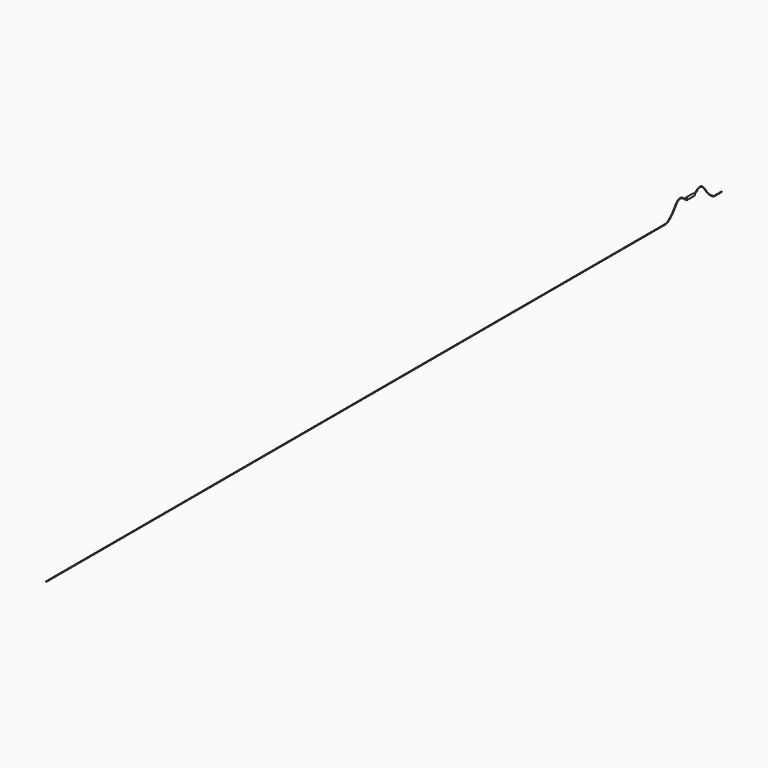
from build123d import *

# Parameters (mm, degrees)
F1_R     = 0.1905
F1_R_2   = 0.127
F4_R     = 0.762
F5_DEPTH = 6.096


with BuildPart() as f2:
    # F2: sweep along a path in F0
    with BuildLine(Plane.YZ) as f2_path:
        Line((0, 0), (-5.9182, 0))
        add(Plane.YZ * Edge.make_bspline(
            [(-5.9182, 0), (-7.2357114294, 0), (-12.3622084135, 4.2069464874), (-15.127424579, 10.0461636498), (-19.8274651049, 10.2549298416), (-21.6713033986, 7.631), (-22.86, 7.631)],
            knots=[0, 0, 0, 0, 0.2933226031, 0.5756827964, 0.7855071002, 1, 1, 1, 1], degree=3))
        Line((-22.86, 7.631), (-28.956, 7.631))
        add(Plane.YZ * Edge.make_bspline(
            [(-28.956, 7.631), (-30.1446966014, 7.631), (-31.9885348951, 10.2549298416), (-36.688575421, 10.0461636498), (-39.4537915865, 4.2069464874), (-44.5802885706, 0), (-45.8978, 0)],
            knots=[0, 0, 0, 0, 0.2144928998, 0.4243172036, 0.7066773969, 1, 1, 1, 1], degree=3))
        Line((-45.8978, 0), (-553.8978, 0))
    # F1 (on Front) → F2 (sweep)
    with BuildSketch(Plane.XZ):
        with Locations((0, -0.1905)):
            Circle(F1_R)
        with Locations((0, -0.1905)):
            Circle(F1_R_2, mode=Mode.SUBTRACT)
    sweep(path=f2_path.line)

    # F4 (on offset) → F5 (join)
    with BuildSketch(Plane.XZ.offset(22.86)):
        with Locations((0, 7.4405)):
            Circle(F4_R)
    extrude(amount=F5_DEPTH)


solid = f2.part
